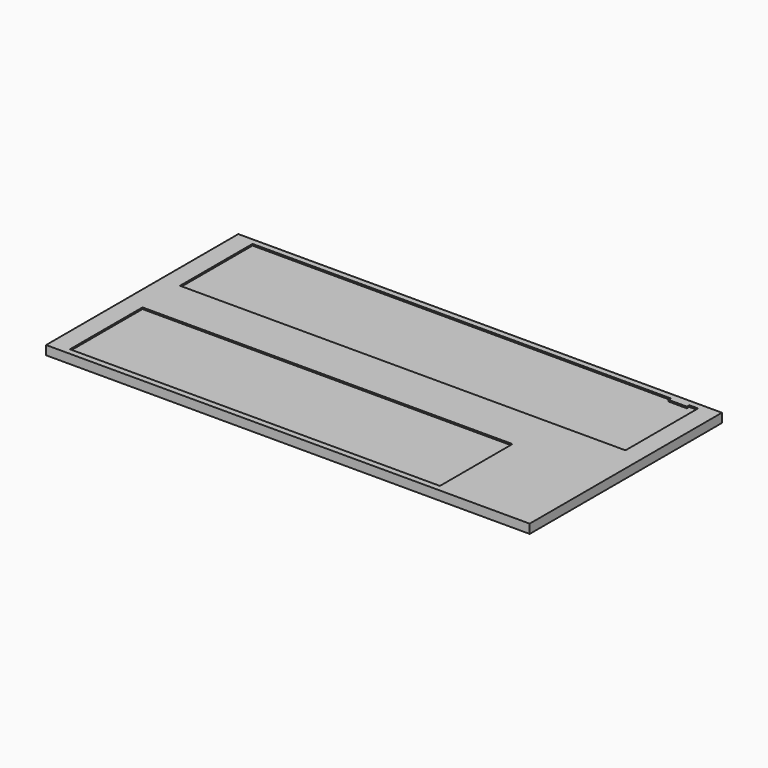
from build123d import *

# Parameters (mm, degrees)
F0_W     = 63
F0_H     = 20
F0_W_2   = 250
F0_W_3   = 1224
F0_W_4   = 1385
F0_W_5   = 60
F0_H_2   = 10
F0_W_6   = 29
F0_H_3   = 300
F0_H_4   = 155
F1_DEPTH = 30
F2_DEPTH = 25


with BuildPart() as f1:
    # F0 (on Top) → F1 (new body)
    with BuildSketch(Plane.XY):
        with Locations((768.5, -387.5)):
            Rectangle(F0_W, F0_H)
        with Locations((612, -387.5)):
            Rectangle(F0_W_2, F0_H)
        with Locations((-125, -387.5)):
            Rectangle(F0_W_3, F0_H)
        with Locations((-768.5, -387.5)):
            Rectangle(F0_W, F0_H)
        with Locations((-44.5, 387.5)):
            Rectangle(F0_W_4, F0_H)
        with Locations((678, 387.5)):
            Rectangle(F0_W_5, F0_H)
        with Locations((678, 372.5)):
            Rectangle(F0_W_5, F0_H_2)
        with Locations((722.5, 387.5)):
            Rectangle(F0_W_6, F0_H)
        with Locations((768.5, 387.5)):
            Rectangle(F0_W, F0_H)
        with Locations((768.5, 227.5)):
            Rectangle(F0_W, F0_H_3)
        Polygon((737, -77.5), (737, 77.5), (-737, 77.5), (-737, -77.5), (487, -77.5), align=None)
        with Locations((-768.5, 387.5)):
            Rectangle(F0_W, F0_H)
        with Locations((-768.5, 227.5)):
            Rectangle(F0_W, F0_H_3)
        with Locations((-768.5, 0)):
            Rectangle(F0_W, F0_H_4)
        with Locations((-768.5, -227.5)):
            Rectangle(F0_W, F0_H_3)
        with Locations((768.5, 0)):
            Rectangle(F0_W, F0_H_4)
        with Locations((768.5, -227.5)):
            Rectangle(F0_W, F0_H_3)
        with Locations((612, -227.5)):
            Rectangle(F0_W_2, F0_H_3)
    extrude(amount=F1_DEPTH)

    # F0 (on Top) → F2 (join)
    with BuildSketch(Plane.XY):
        Polygon((737, 77.5), (737, 377.5), (708, 377.5), (708, 367.5), (648, 367.5), (648, 377.5), (-737, 377.5), (-737, 77.5), align=None)
        with Locations((-125, -227.5)):
            Rectangle(F0_W_3, F0_H_3)
    extrude(amount=F2_DEPTH)


solid = f1.part
